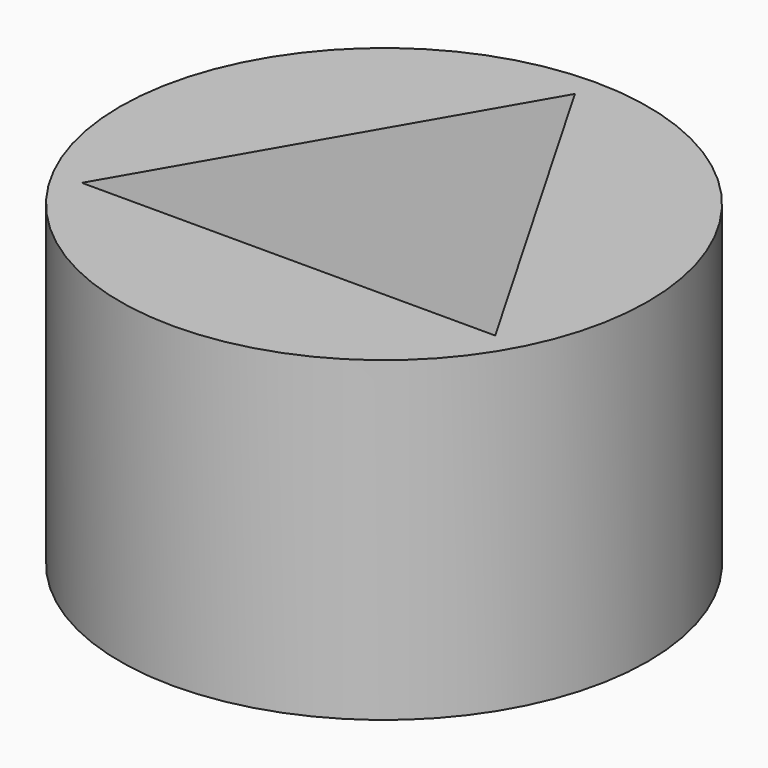
from build123d import *

# Parameters (mm, degrees)
F1_R     = 5
F2_DEPTH = 6


with BuildPart() as f2:
    # F1 (on Top) → F2 (new body)
    with BuildSketch(Plane.XY):
        Circle(F1_R)
        Polygon((-3.915, -2.2603263039), (0, 4.5206526078), (3.915, -2.2603263039), align=None, mode=Mode.SUBTRACT)
    extrude(amount=F2_DEPTH)


solid = f2.part
